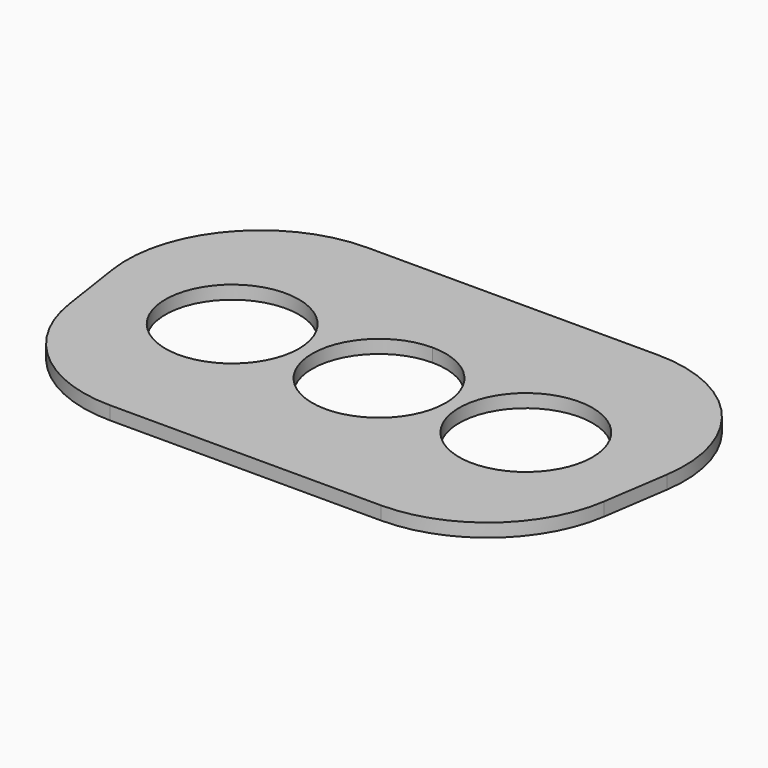
from build123d import *

# Parameters (mm, degrees)
F0_R     = 10
F1_DEPTH = 2
F2_R     = 20


with BuildPart() as f1:
    # F0 (on Top) → F1 (new body)
    with BuildSketch(Plane.XY):
        with BuildLine():
            Line((0, 0), (-45, 0))
            Line((-45, 0), (-37.5, -50))
            Line((-37.5, -50), (0, -50))
            Line((0, -50), (0, -35))
            ThreePointArc((0, -35), (-10, -25), (0, -15))
            Line((0, -15), (0, 0))
        make_face()
        with Locations((-22, -25)):
            Circle(F0_R, mode=Mode.SUBTRACT)
        with BuildLine():
            Line((45, 0), (0, 0))
            Line((0, 0), (0, -15))
            ThreePointArc((0, -15), (7.071068, -17.928932), (10, -25))
            ThreePointArc((10, -25), (7.071068, -32.071068), (0, -35))
            Line((0, -35), (0, -50))
            Line((0, -50), (37.5, -50))
            Line((37.5, -50), (45, 0))
        make_face()
        with Locations((22, -25)):
            Circle(F0_R, mode=Mode.SUBTRACT)
    extrude(amount=F1_DEPTH)

    # F2
    f2_edges = [f1.edges().sort_by_distance(p)[0] for p in [
        (-37.5, -50, 1),
        (37.5, -50, 1),
        (45, 0, 1),
        (-45, 0, 1),
    ]]
    fillet(f2_edges, radius=F2_R)


solid = f1.part
